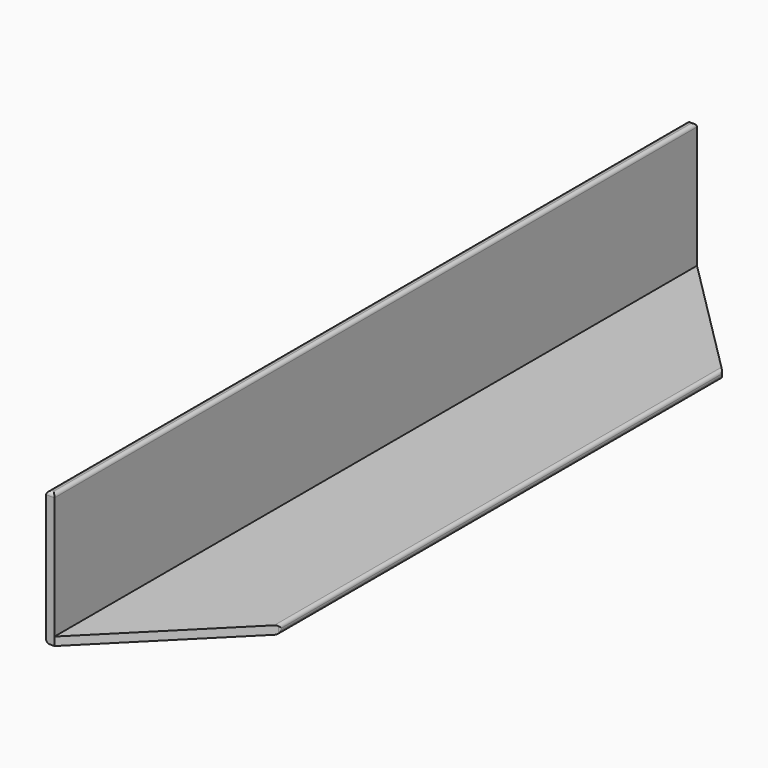
from build123d import *

# Parameters (mm, degrees)
F1_DEPTH = 152.4
F3_R     = 1.27
F4_DEPTH = 3.81
F6_DEPTH = 3.81
F7_R     = 1.27
F8_R     = 1.27


with BuildPart() as f1:
    # F0 (on Front) → F1 (new body, symmetric)
    with BuildSketch(Plane.XZ):
        Polygon((0, 50.8), (0, 0), (50.8, 0), (50.8, 3.175), (3.175, 3.175), (3.175, 50.8), align=None)
    extrude(amount=F1_DEPTH, both=True)

    # F3
    f3_edges = [f1.edges().sort_by_distance(p)[0] for p in [
        (3.175, 0, 50.8),
        (1.5875, 152.4, 50.8),
        (0, 0, 50.8),
        (1.5875, -152.4, 50.8),
    ]]
    fillet(f3_edges, radius=F3_R)

    # F2 (on face) → F4 (cut)
    with BuildSketch(Plane.XY.offset(3.175)):
        Polygon((50.8, 152.4), (3.175, 152.4), (50.8, 104.775), align=None)
    extrude(amount=-F4_DEPTH, mode=Mode.SUBTRACT)

    # F5 (on face) → F6 (cut)
    with BuildSketch(Plane.XY.offset(3.175)):
        Polygon((50.8, -104.775), (3.175, -152.4), (50.8, -152.4), align=None)
    extrude(amount=-F6_DEPTH, mode=Mode.SUBTRACT)

    # F7
    f7_edges = [f1.edges().sort_by_distance(p)[0] for p in [
        (50.8, -104.775, 1.5875),
        (50.8, 0, 3.175),
        (50.8, 104.775, 1.5875),
        (50.8, 0, 0),
    ]]
    fillet(f7_edges, radius=F7_R)

    # F8
    f8_edges = [f1.edges().sort_by_distance(p)[0] for p in [
        (0, 0, 0),
    ]]
    fillet(f8_edges, radius=F8_R)


solid = f1.part
